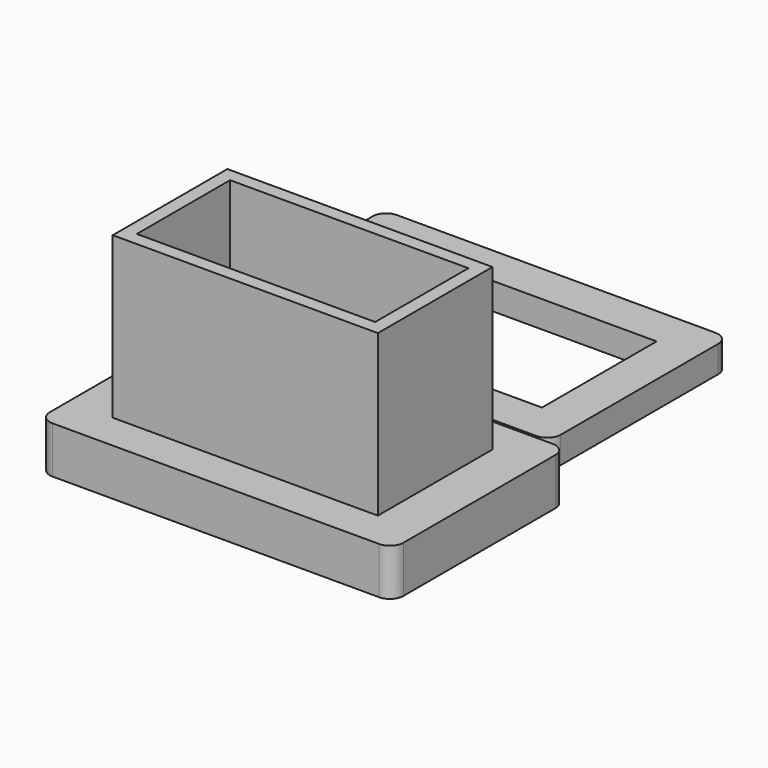
from build123d import *

# Parameters (mm, degrees)
F0_W       = 26.4
F0_H       = 16.2
F1_DEPTH   = 3.5
F2_W       = 19.8
F2_H       = 10.7
F3_DEPTH   = 12
F4_W       = 17.8
F4_H       = 8.7
F5_DEPTH   = 12
F6_R       = 3
F7_DEPTH   = 25
F8_R       = 1
F1_FACE1_R = 3
F9_R       = 1.1777908887
F10_DEPTH  = 2
F11_W      = 19.8
F11_H      = 10.7
F12_DEPTH  = 2


with BuildPart() as f1:
    # F0 (on Top) → F1 (new body)
    with BuildSketch(Plane.XY):
        Rectangle(F0_W, F0_H)
    extrude(amount=F1_DEPTH)

    # F2 (on face) → F3 (join)
    with BuildSketch(Plane.XY.offset(3.5)):
        Rectangle(F2_W, F2_H)
        Rectangle(F2_W, F2_H)
    extrude(amount=F3_DEPTH)

    # F4 (on face) → F5 (cut)
    with BuildSketch(Plane.XY.offset(15.5)):
        Rectangle(F4_W, F4_H)
    extrude(amount=-F5_DEPTH, mode=Mode.SUBTRACT)

    # F6 (on face) → F7 (cut)
    with BuildSketch(Plane(origin=(0, 0, 0), x_dir=(1, 0, 0), z_dir=(0, 0, -1))):
        Circle(F6_R)
    extrude(amount=-F7_DEPTH, mode=Mode.SUBTRACT)

    # F8
    f8_edges = [f1.edges().sort_by_distance(p)[0] for p in [
        (13.2, 8.1, 1.75),
        (13.2, -8.1, 1.75),
        (-13.2, 8.1, 1.75),
        (-13.2, -8.1, 1.75),
    ]]
    fillet(f8_edges, radius=F8_R)

    # F1_face1 (on face) + F9 (on face) → F10 (cut)
    with BuildSketch(Plane(origin=(0, 0, 0), x_dir=(1, 0, 0), z_dir=(0, 0, -1))):
        with BuildLine():
            Line((-12.2, -8.1), (12.2, -8.1))
            ThreePointArc((12.2, -8.1), (12.9071067812, -7.8071067812), (13.2, -7.1))
            Line((13.2, -7.1), (13.2, 7.1))
            ThreePointArc((13.2, 7.1), (12.9071067812, 7.8071067812), (12.2, 8.1))
            Line((12.2, 8.1), (-12.2, 8.1))
            ThreePointArc((-12.2, 8.1), (-12.9071067812, 7.8071067812), (-13.2, 7.1))
            Line((-13.2, 7.1), (-13.2, -7.1))
            ThreePointArc((-13.2, -7.1), (-12.9071067812, -7.8071067812), (-12.2, -8.1))
        make_face()
        Circle(F1_FACE1_R, mode=Mode.SUBTRACT)
    with BuildSketch(Plane.XY.offset(3.5)):
        with Locations((-6.8, 0)):
            Circle(F9_R)
    extrude(amount=F10_DEPTH, dir=(0, 0, -1), mode=Mode.SUBTRACT)


with BuildPart() as f12:
    # F11 (on Top) → F12 (new body)
    with BuildSketch(Plane.XY):
        with BuildLine():
            Line((9.0459102817, 27.2365642995), (-14.7540897183, 27.2365642995))
            ThreePointArc((-14.7540897183, 27.2365642995), (-15.4611964995, 26.9436710807), (-15.7540897183, 26.2365642995))
            Line((-15.7540897183, 26.2365642995), (-15.7540897183, 11.5365642995))
            ThreePointArc((-15.7540897183, 11.5365642995), (-15.4611964995, 10.8294575183), (-14.7540897183, 10.5365642995))
            Line((-14.7540897183, 10.5365642995), (9.0459102817, 10.5365642995))
            ThreePointArc((9.0459102817, 10.5365642995), (9.7530170629, 10.8294575183), (10.0459102817, 11.5365642995))
            Line((10.0459102817, 11.5365642995), (10.0459102817, 26.2365642995))
            ThreePointArc((10.0459102817, 26.2365642995), (9.7530170629, 26.9436710807), (9.0459102817, 27.2365642995))
        make_face()
        with Locations((-2.8540897183, 18.8865642995)):
            Rectangle(F11_W, F11_H, mode=Mode.SUBTRACT)
    extrude(amount=F12_DEPTH)


solid = Compound([f1.part, f12.part])
